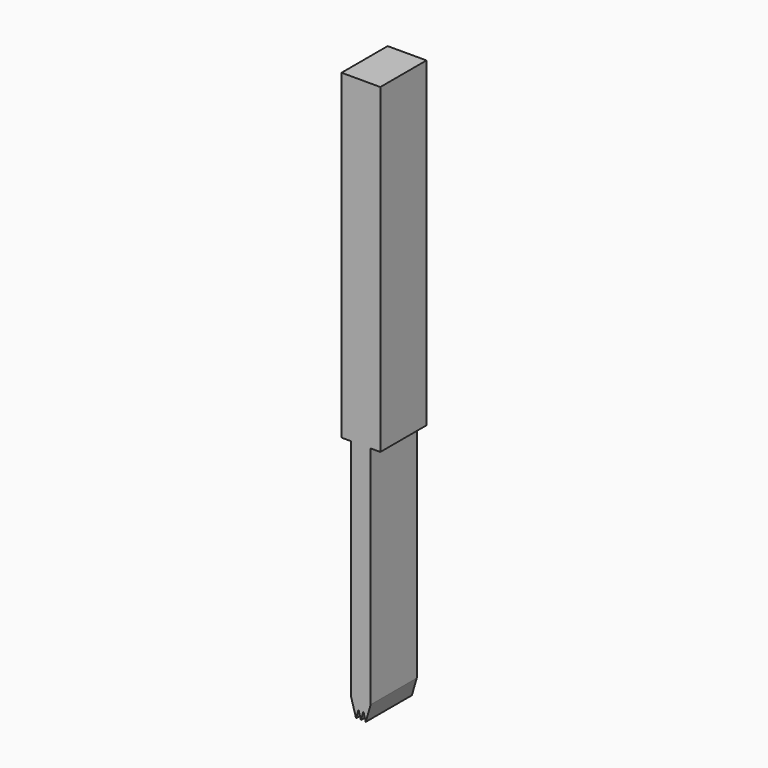
from build123d import *

# Parameters (mm, degrees)
F1_DEPTH = 14.224


with BuildPart() as f1:
    # F0 (on Front) → F1 (new body)
    with BuildSketch(Plane.XZ):
        Polygon((4.784628, 39.629921), (-4.784628, 39.629921), (-4.784628, -39.629921), (-2.392314, -39.629921), (0, -39.629921), (2.392314, -39.629921), (4.784628, -39.629921), align=None)
        Polygon((0, -39.629921), (-2.392314, -39.629921), (-2.392314, -95.287018), (-1.196157, -99.425659), (-0.598078, -97.356338), (0, -95.287018), (0.598078, -97.356338), (1.196157, -99.425659), (2.392314, -95.287018), (2.392314, -39.629921), align=None)
        Polygon((0, -95.287018), (-0.598078, -97.356338), (0, -99.425659), (0.598078, -97.356338), align=None)
    extrude(amount=F1_DEPTH)


solid = f1.part
